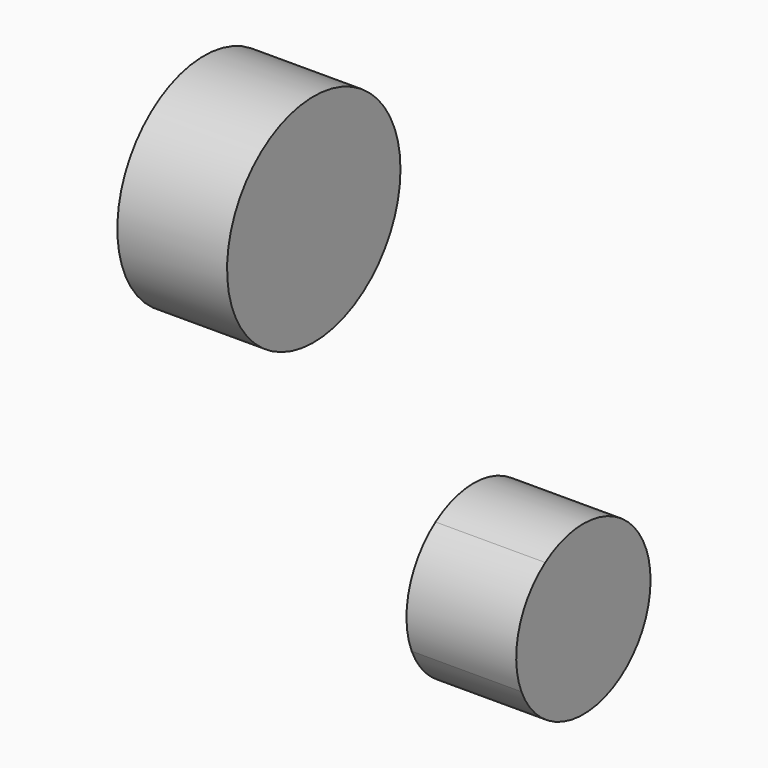
from build123d import *

# Parameters (mm, degrees)
F1_DEPTH = 25.4


with BuildPart() as f1:
    # F0 (on Right) → F1 (new body)
    with BuildSketch(Plane.YZ):
        with BuildLine():
            ThreePointArc((97.444769, -113.164909), (87.046637, -95.958308), (66.978323, -97.162906))
            Line((66.978323, -97.162906), (78.009151, -113.164909))
            Line((78.009151, -113.164909), (60.085036, -120.679519))
            ThreePointArc((60.085036, -120.679519), (81.841709, -132.218905), (97.444769, -113.164909))
        make_face()
        with BuildLine():
            ThreePointArc((14.236965, -20.653024), (22.207741, -11.664253), (25.084628, 0))
            ThreePointArc((25.084628, 0), (-22.207741, 11.664253), (14.236965, -20.653024))
        make_face()
        with BuildLine():
            Line((78.009151, -113.164909), (66.978323, -97.162906))
            ThreePointArc((66.978323, -97.162906), (59.358281, -107.697889), (60.085036, -120.679519))
            Line((60.085036, -120.679519), (78.009151, -113.164909))
        make_face()
    extrude(amount=F1_DEPTH)


solid = f1.part
